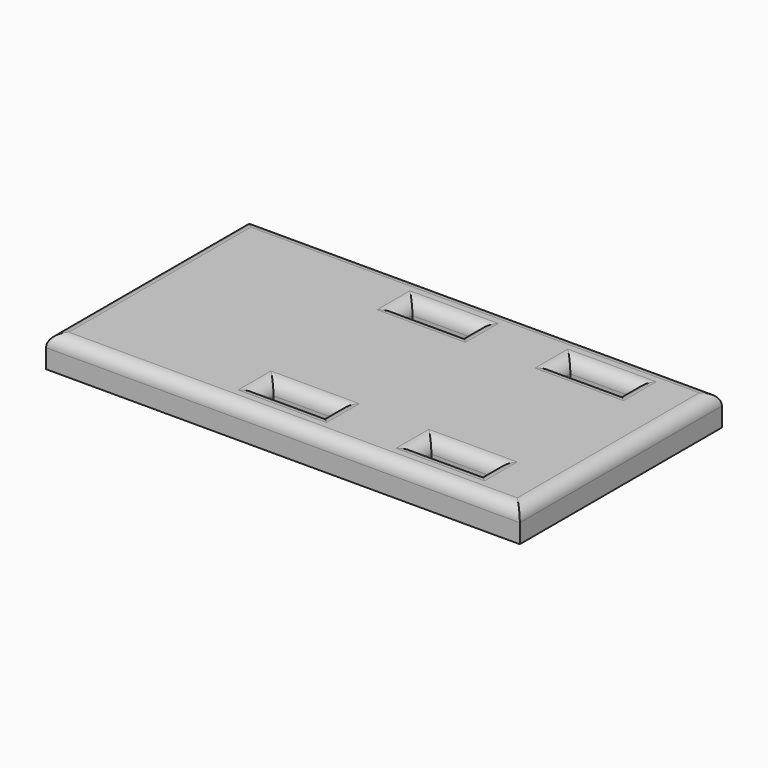
from build123d import *

# Parameters (mm, degrees)
F0_W     = 10
F0_H     = 2.5
F1_DEPTH = 5
F2_R     = 2


with BuildPart() as f1:
    # F0 (on Top) → F1 (new body)
    with BuildSketch(Plane.XY):
        Polygon((13.832743, 0), (-61.167257, 0), (-61.167257, -40), (13.832743, -40), (13.832743, -32.5), (13.832743, -7.5), align=None)
        with Locations((-26.167257, -33.75)):
            Rectangle(F0_W, F0_H, mode=Mode.SUBTRACT)
        with Locations((-1.167257, -33.75)):
            Rectangle(F0_W, F0_H, mode=Mode.SUBTRACT)
        with Locations((-26.167257, -6.25)):
            Rectangle(F0_W, F0_H, mode=Mode.SUBTRACT)
        with Locations((-1.167257, -6.25)):
            Rectangle(F0_W, F0_H, mode=Mode.SUBTRACT)
    extrude(amount=F1_DEPTH)

    # F2
    f2_edges = [f1.edges().sort_by_distance(p)[0] for p in [
        (-1.167257, -5, 5),
        (3.832743, -6.25, 5),
        (-1.167257, -7.5, 5),
        (-6.167257, -6.25, 5),
        (-21.167257, -6.25, 5),
        (-26.167257, -5, 5),
        (-26.167257, -7.5, 5),
        (-23.667257, 0, 5),
        (-61.167257, -20, 5),
        (-23.667257, -40, 5),
        (13.832743, -20, 5),
        (-26.167257, -32.5, 5),
        (-21.167257, -33.75, 5),
        (-26.167257, -35, 5),
        (-31.167257, -33.75, 5),
        (-6.167257, -33.75, 5),
        (-1.167257, -32.5, 5),
        (3.832743, -33.75, 5),
        (-1.167257, -35, 5),
        (-31.167257, -6.25, 5),
    ]]
    fillet(f2_edges, radius=F2_R)


solid = f1.part
